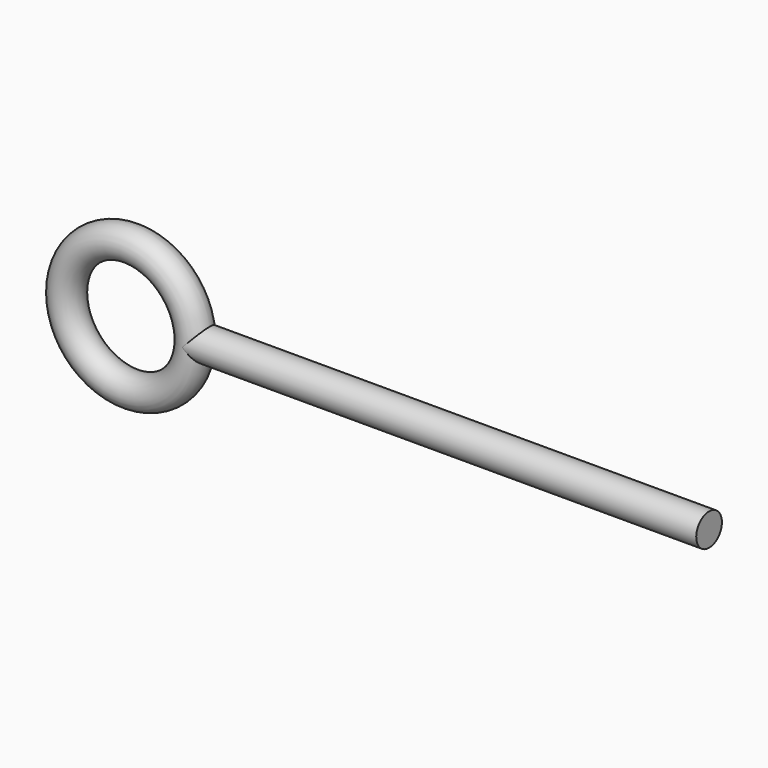
from build123d import *

# Parameters (mm, degrees)
TORUS_R              = 2.5
TORUS_ROLL_ANGLE     = 90
CYLINDER_R           = 2.5
CYLINDER_DEPTH       = 80
CYLINDER_PITCH_ANGLE = 90


with BuildPart() as torus:
    # Torus → Torus (revolve)
    with BuildSketch(Plane.XZ):
        with Locations((10, 0)):
            Circle(TORUS_R)
    revolve(axis=Axis((0, 0, 0), (0, 0, 1)))


with BuildPart() as torus_1:
    # Torus roll: moved
    add(torus.part.rotate(Axis((0, 0, 0), (1, 0, 0)), TORUS_ROLL_ANGLE))


with BuildPart() as torus_2:
    # Torus placement: moved
    add(torus_1.part)


with BuildPart() as fusion:
    # Cylinder → Cylinder (new body)
    with BuildSketch(Plane.XY):
        Circle(CYLINDER_R)
    extrude(amount=CYLINDER_DEPTH)


with BuildPart() as fusion_1:
    # Cylinder pitch: moved
    add(fusion.part.rotate(Axis((0, 0, 0), (0, 1, 0)), CYLINDER_PITCH_ANGLE))


with BuildPart() as fusion_2:
    # Cylinder placement: moved
    add(fusion_1.part.moved(Location((10, 0, 0))))

    # Fusion: union Torus
    add(torus_2.part)


solid = fusion_2.part
